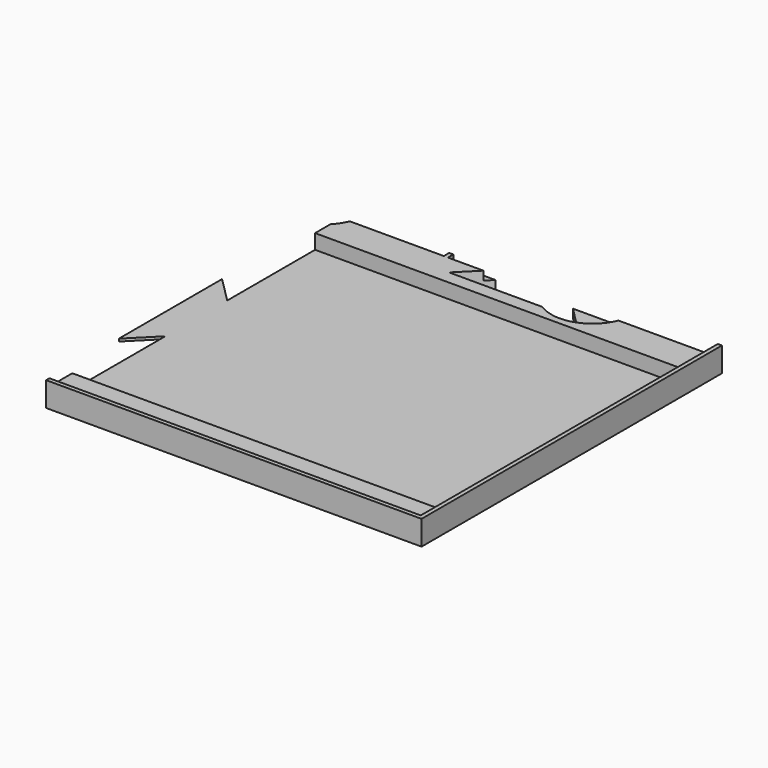
from build123d import *

# Parameters (mm, degrees)
PAD019_DEPTH            = 6.2
SKETCH044_W             = 187.5
SKETCH044_H             = 187.5
PAD020_DEPTH            = 2.8
PAD021_DEPTH            = 8.5
BODY021_PLACEMENT_ANGLE = 90
PAD022_DEPTH            = 6.2
BODY023_PLACEMENT_ANGLE = 180
PAD028_DEPTH            = 2.3
PAD029_DEPTH            = 2.3
PAD030_DEPTH            = 2.3
PAD031_DEPTH            = 2.3
PAD032_DEPTH            = 2.3
PAD033_DEPTH            = 2.3
PAD034_DEPTH            = 8.5
SKETCH046_W             = 291
SKETCH046_H             = 291
PAD027_DEPTH            = 9.5
POCKET044_DEPTH         = 9.501


with BuildPart() as obj1:
    # Sketch043 → Pad019 (new body)
    with BuildSketch(Plane.XY):
        with BuildLine():
            Line((-51.25, 73.5), (51.25, 73.5))
            Line((51.25, 73.5), (51.25, -73.5))
            Line((51.25, -73.5), (14.832397, -73.5))
            ThreePointArc((-14.832397, -73.5), (0, -83.5), (14.832397, -73.5))
            Line((-14.832397, -73.5), (-51.25, -73.5))
            Line((-51.25, -73.5), (-51.25, 73.5))
        make_face()
    extrude(amount=PAD019_DEPTH)


with BuildPart() as obj1_1:
    # Body019 placement: moved
    add(obj1.part.moved(Location((92.65, 70.9, 3.3))))


with BuildPart() as obj2:
    # Sketch044 → Pad020 (new body)
    with BuildSketch(Plane.XY):
        Rectangle(SKETCH044_W, SKETCH044_H)
    extrude(amount=PAD020_DEPTH)


with BuildPart() as obj2_1:
    # Body020 placement: moved
    add(obj2.part.moved(Location((50.15, -50.15, 6.7))))


with BuildPart() as obj3:
    # Sketch045 → Pad021 (new body)
    with BuildSketch(Plane.XY):
        with BuildLine():
            Line((-58.8, 92.5), (58.8, 92.5))
            Line((58.8, 92.5), (58.8, -92.5))
            Line((58.8, -92.5), (17, -92.5))
            ThreePointArc((-17, -92.5), (0, -109.5), (17, -92.5))
            Line((-17, -92.5), (-58.8, -92.5))
            Line((-58.8, -92.5), (-58.8, 92.5))
        make_face()
    extrude(amount=PAD021_DEPTH)


with BuildPart() as obj3_1:
    # Body021 placement: moved
    add(obj3.part.moved(Location((50.15, -74, 1))).rotate(Axis((50.15, -74, 1), (0, 0, -1)), BODY021_PLACEMENT_ANGLE))


with BuildPart() as obj4:
    # Sketch047 → Pad022 (new body)
    with BuildSketch(Plane.XY):
        with BuildLine():
            Line((-51.25, 73.5), (-14.832397, 73.5))
            ThreePointArc((14.832397, 73.5), (0, 83.5), (-14.832397, 73.5))
            Line((14.832397, 73.5), (51.25, 73.5))
            Line((51.25, 73.5), (51.25, -73.5))
            Line((51.25, -73.5), (-51.25, -73.5))
            Line((-51.25, -73.5), (-51.25, 73.5))
        make_face()
    extrude(amount=PAD022_DEPTH)


with BuildPart() as obj4_1:
    # Body023 placement: moved
    add(obj4.part.moved(Location((-11.45, 70.9, 3.3))).rotate(Axis((-11.45, 70.9, 3.3), (0, 0, 1)), BODY023_PLACEMENT_ANGLE))


with BuildPart() as alliancetokens1:
    # Sketch054 → Pad028 (new body)
    with BuildSketch(Plane.XY):
        with BuildLine():
            ThreePointArc((8.5, -8.5), (24.025463, -17.7), (39.550926, -8.5))
            Line((51.25, -8.5), (39.550926, -8.5))
            Line((51.25, 8.5), (51.25, -8.5))
            Line((39.550926, 8.5), (51.25, 8.5))
            ThreePointArc((39.550926, 8.5), (24.025463, 17.7), (8.5, 8.5))
            Line((8.5, 8.5), (-8.5, 8.5))
            ThreePointArc((-8.5, 8.5), (-24.025463, 17.7), (-39.550926, 8.5))
            Line((-39.550926, 8.5), (-51.25, 8.5))
            Line((-51.25, 8.5), (-51.25, -8.5))
            Line((-51.25, -8.5), (-39.550926, -8.5))
            ThreePointArc((-39.550926, -8.5), (-24.025463, -17.7), (-8.5, -8.5))
            Line((8.5, -8.5), (-8.5, -8.5))
        make_face()
    extrude(amount=PAD028_DEPTH)


with BuildPart() as alliancetokens1_1:
    # Body028 placement: moved
    add(alliancetokens1.part.moved(Location((92.65, 106.5, 1))))


with BuildPart() as alliancetokens2:
    # Sketch055 → Pad029 (new body)
    with BuildSketch(Plane.XY):
        with BuildLine():
            ThreePointArc((8.5, -8.5), (24.025463, -17.7), (39.550926, -8.5))
            Line((51.25, -8.5), (39.550926, -8.5))
            Line((51.25, 8.5), (51.25, -8.5))
            Line((39.550926, 8.5), (51.25, 8.5))
            ThreePointArc((39.550926, 8.5), (24.025463, 17.7), (8.5, 8.5))
            Line((8.5, 8.5), (-8.5, 8.5))
            ThreePointArc((-8.5, 8.5), (-24.025463, 17.7), (-39.550926, 8.5))
            Line((-39.550926, 8.5), (-51.25, 8.5))
            Line((-51.25, 8.5), (-51.25, -8.5))
            Line((-51.25, -8.5), (-39.550926, -8.5))
            ThreePointArc((-39.550926, -8.5), (-24.025463, -17.7), (-8.5, -8.5))
            Line((8.5, -8.5), (-8.5, -8.5))
        make_face()
    extrude(amount=PAD029_DEPTH)


with BuildPart() as alliancetokens2_1:
    # Body029 placement: moved
    add(alliancetokens2.part.moved(Location((-11.45, 106.5, 1))))


with BuildPart() as obj5:
    # Sketch056 → Pad030 (new body)
    with BuildSketch(Plane.XY):
        Polygon((-39.5, 8.5), (-51.25, 8.5), (-51.25, -8.5), (-39.5, -8.5), (-39.5, -15.5), (-8.5, -15.5), (-8.5, -8.5), (8.5, -8.5), (8.5, -15.5), (39.5, -15.5), (39.5, -8.5), (51.25, -8.5), (51.25, 8.5), (39.5, 8.5), (39.5, 15.5), (8.5, 15.5), (8.5, 8.5), (-8.5, 8.5), (-8.5, 15.5), (-39.5, 15.5), align=None)
    extrude(amount=PAD030_DEPTH)


with BuildPart() as obj5_1:
    # Body030 placement: moved
    add(obj5.part.moved(Location((92.65, 66.7, 1))))


with BuildPart() as obj6:
    # Sketch057 → Pad031 (new body)
    with BuildSketch(Plane.XY):
        Polygon((-39.5, 8.5), (-51.25, 8.5), (-51.25, -8.5), (-39.5, -8.5), (-39.5, -15.5), (-8.5, -15.5), (-8.5, -8.5), (8.5, -8.5), (8.5, -15.5), (39.5, -15.5), (39.5, -8.5), (51.25, -8.5), (51.25, 8.5), (39.5, 8.5), (39.5, 15.5), (8.5, 15.5), (8.5, 8.5), (-8.5, 8.5), (-8.5, 15.5), (-39.5, 15.5), align=None)
    extrude(amount=PAD031_DEPTH)


with BuildPart() as obj6_1:
    # Body031 placement: moved
    add(obj6.part.moved(Location((-11.45, 66.7, 1))))


with BuildPart() as obj7:
    # Sketch058 → Pad032 (new body)
    with BuildSketch(Plane.XY):
        with BuildLine():
            Line((-19.965971, 8.5), (-36.965971, 8.5))
            Line((-36.965971, 8.5), (-36.965971, -8.5))
            Line((-36.965971, -8.5), (-19.965971, -8.5))
            ThreePointArc((-19.965971, -8.5), (0, -21.7), (19.965971, -8.5))
            Line((36.965971, -8.5), (19.965971, -8.5))
            Line((36.965971, 8.5), (36.965971, -8.5))
            Line((19.965971, 8.5), (36.965971, 8.5))
            ThreePointArc((19.965971, 8.5), (0, 21.7), (-19.965971, 8.5))
        make_face()
    extrude(amount=PAD032_DEPTH)


with BuildPart() as obj7_1:
    # Body032 placement: moved
    add(obj7.part.moved(Location((92.65, 22.7, 1))))


with BuildPart() as obj8:
    # Sketch059 → Pad033 (new body)
    with BuildSketch(Plane.XY):
        Polygon((-28.5, 8.5), (-38.5, 8.5), (-38.5, -8.5), (-28.5, -8.5), (-28.5, -15), (28.5, -15), (28.5, -8.5), (38.5, -8.5), (38.5, 8.5), (28.5, 8.5), (28.5, 15), (-28.5, 15), align=None)
    extrude(amount=PAD033_DEPTH)


with BuildPart() as obj8_1:
    # Body033 placement: moved
    add(obj8.part.moved(Location((-11.45, 22.7, 1))))


with BuildPart() as obj9:
    # Sketch060 → Pad034 (new body)
    with BuildSketch(Plane.XY):
        with BuildLine():
            Line((-33.75, 143.9), (33.75, 143.9))
            Line((33.75, 143.9), (33.75, 51.4))
            Line((33.75, 51.4), (10, 51.4))
            ThreePointArc((10, 51.4), (7.425, 48.825), (10, 46.25))
            Line((10, 46.25), (33.75, 46.25))
            Line((33.75, 46.25), (33.75, -46.25))
            Line((33.75, -46.25), (10, -46.25))
            ThreePointArc((10, -46.25), (7.425, -48.825), (10, -51.4))
            Line((10, -51.4), (33.75, -51.4))
            Line((33.75, -51.4), (33.75, -143.9))
            Line((33.75, -143.9), (-33.75, -143.9))
            Line((-33.75, -143.9), (-33.75, -113.555974))
            ThreePointArc((-33.75, -81.744026), (-44.75, -97.65), (-33.75, -113.555974))
            Line((-33.75, -81.744026), (-33.75, -51.4))
            Line((-33.75, -51.4), (-10, -51.4))
            ThreePointArc((-10, -51.4), (-7.425, -48.825), (-10, -46.25))
            Line((-10, -46.25), (-33.75, -46.25))
            Line((-33.75, -46.25), (-33.75, -15.905974))
            ThreePointArc((-33.75, 15.905974), (-44.75, 0), (-33.75, -15.905974))
            Line((-33.75, 15.905974), (-33.75, 46.25))
            Line((-33.75, 46.25), (-10, 46.25))
            ThreePointArc((-10, 46.25), (-7.425, 48.825), (-10, 51.4))
            Line((-10, 51.4), (-33.75, 51.4))
            Line((-33.75, 51.4), (-33.75, 81.744026))
            ThreePointArc((-33.75, 113.555974), (-44.75, 97.65), (-33.75, 81.744026))
            Line((-33.75, 113.555974), (-33.75, 143.9))
        make_face()
    extrude(amount=PAD034_DEPTH)


with BuildPart() as obj9_1:
    # Body034 placement: moved
    add(obj9.part.moved(Location((-99.15, 0, 1))))


with BuildPart() as topinsert:
    # Sketch046 → Pad027 (new body)
    with BuildSketch(Plane.XY):
        Rectangle(SKETCH046_W, SKETCH046_H)
    extrude(amount=PAD027_DEPTH)

    # Boolean: cut obj1, obj2, obj3, obj4, AllianceTokens1, AllianceTokens2, obj5, obj6, obj7, obj8, obj9
    add(obj1_1.part, mode=Mode.SUBTRACT)
    add(obj2_1.part, mode=Mode.SUBTRACT)
    add(obj3_1.part, mode=Mode.SUBTRACT)
    add(obj4_1.part, mode=Mode.SUBTRACT)
    add(alliancetokens1_1.part, mode=Mode.SUBTRACT)
    add(alliancetokens2_1.part, mode=Mode.SUBTRACT)
    add(obj5_1.part, mode=Mode.SUBTRACT)
    add(obj6_1.part, mode=Mode.SUBTRACT)
    add(obj7_1.part, mode=Mode.SUBTRACT)
    add(obj8_1.part, mode=Mode.SUBTRACT)
    add(obj9_1.part, mode=Mode.SUBTRACT)

    # Sketch123 → Pocket044 (cut, through all)
    with BuildSketch(Plane.XY):
        Polygon((-145.5, 145.5), (-145.5, 0), (-145.5, -145.5), (0, -145.5), (0, -87.75), (-10, -97.75), (-10, -47.75), (0, -57.75), (0, 0), (57.75, 0), (47.75, -10), (97.75, -10), (87.75, 0), (145.5, 0), (145.5, 145.5), (0, 145.5), align=None)
    extrude(amount=POCKET044_DEPTH, mode=Mode.SUBTRACT)


solid = topinsert.part
